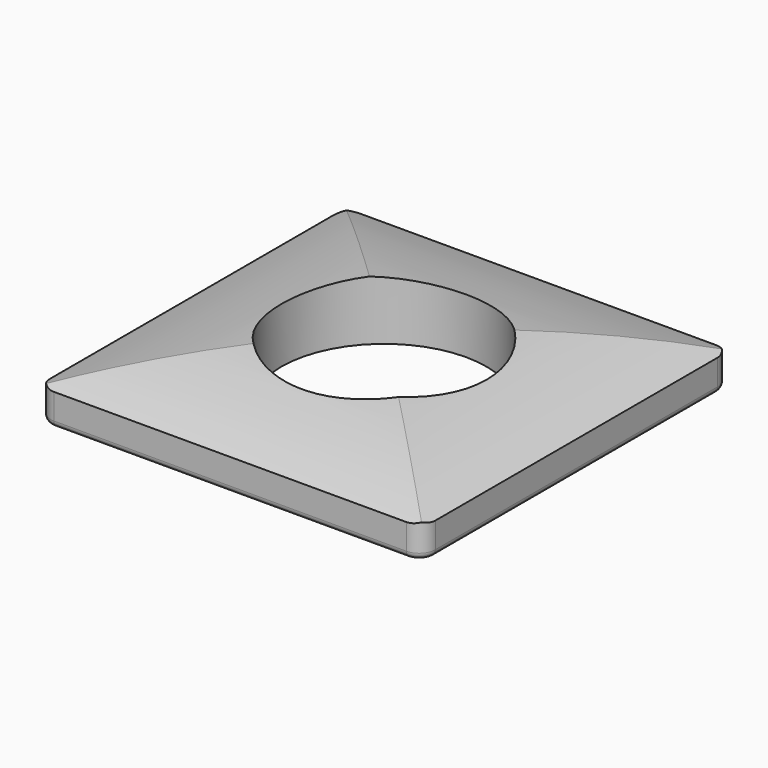
from build123d import *

# Parameters (mm, degrees)
SKETCH011_W     = 6
SKETCH011_H     = 6
SKETCH011_R     = 1.6
PAD003_DEPTH    = 1
POCKET007_DEPTH = 6.001
POCKET008_DEPTH = 6
FILLET002_R     = 0.25
FILLET003_R     = 0.1


with BuildPart() as part:
    # Sketch011 → Pad003 (new body)
    with BuildSketch(Plane.XY.offset(8.5)):
        with Locations((-4.125, 0)):
            Rectangle(SKETCH011_W, SKETCH011_H)
        with Locations((-4.125, 0)):
            Circle(SKETCH011_R, mode=Mode.SUBTRACT)
    extrude(amount=PAD003_DEPTH)

    # Sketch012 → Pocket007 (cut, through all)
    with BuildSketch(Plane(origin=(0, -3, 8.5), x_dir=(1, 0, 0), z_dir=(0, -1, 0))):
        with BuildLine():
            ThreePointArc((-1.125, 0.5), (-4.125, 1), (-7.125, 0.5))
            Line((-7.740595, 0.5), (-7.125, 0.5))
            Line((-7.740595, 1.84364), (-7.740595, 0.5))
            Line((-7.740595, 1.84364), (-0.509405, 1.84364))
            Line((-0.509405, 1.84364), (-0.509405, 0.5))
            Line((-0.509405, 0.5), (-1.125, 0.5))
        make_face()
    extrude(amount=-POCKET007_DEPTH, mode=Mode.SUBTRACT)

    # Sketch013 → Pocket008 (cut)
    with BuildSketch(Plane(origin=(-7.125, 0, 8.5), x_dir=(0, -1, 0), z_dir=(-1, 0, 0))):
        with BuildLine():
            ThreePointArc((3, 0.5), (0, 1), (-3, 0.5))
            Line((-3.32758, 0.5), (-3, 0.5))
            Line((-3.32758, 1.60662), (-3.32758, 0.5))
            Line((-3.32758, 1.60662), (3.32758, 1.60662))
            Line((3.32758, 1.60662), (3.32758, 0.5))
            Line((3.32758, 0.5), (3, 0.5))
        make_face()
    extrude(amount=-POCKET008_DEPTH, mode=Mode.SUBTRACT)

    # Fillet002
    fillet002_edges = [part.edges().sort_by_distance(p)[0] for p in [
        (-7.125, -3, 8.75),
        (-7.125, 3, 8.75),
        (-1.125, -3, 8.75),
        (-1.125, 3, 8.75),
    ]]
    fillet(fillet002_edges, radius=FILLET002_R)

    # Fillet003
    fillet003_edges = [part.edges().sort_by_distance(p)[0] for p in [
        (-7.125, 0, 8.5),
    ]]
    fillet(fillet003_edges, radius=FILLET003_R)


solid = part.part
